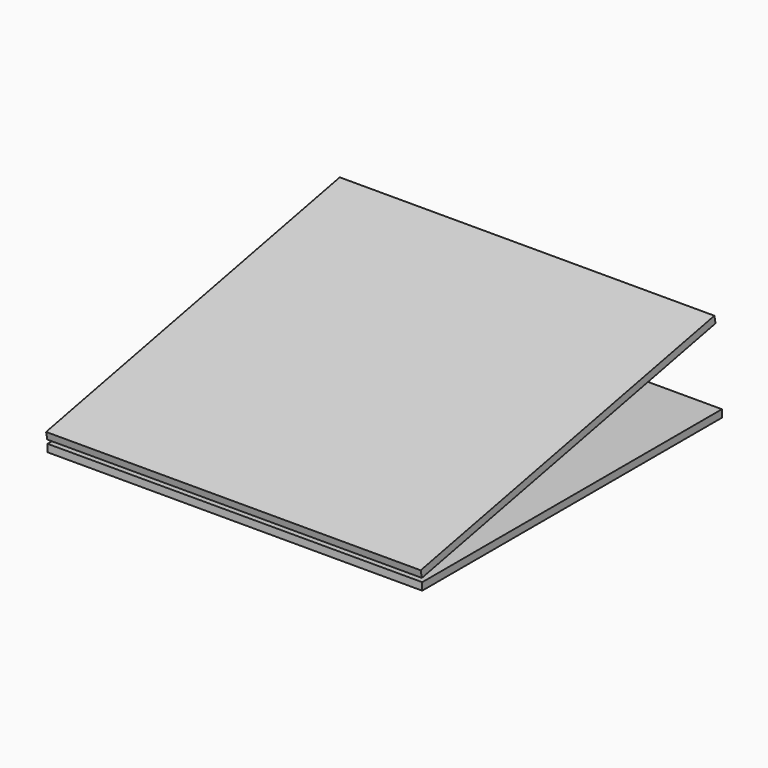
from build123d import *

# Parameters (mm, degrees)
PAD_DEPTH    = 50
SKETCH003_W  = 100
SKETCH003_H  = 2
PAD001_DEPTH = 50
PAD003_DEPTH = 3


with BuildPart() as part:
    # Sketch001 → Pad (new body, symmetric)
    with BuildSketch(Plane.YZ):
        Polygon((24.494897, 5), (24.894897, 3.040408), (122.874487, 23.040408), (122.474487, 25), align=None)
    extrude(amount=PAD_DEPTH, both=True)

    # Sketch003 → Pad001 (join, symmetric)
    with BuildSketch(Plane.YZ):
        with Locations((75, 1)):
            Rectangle(SKETCH003_W, SKETCH003_H)
    extrude(amount=PAD001_DEPTH, both=True)

    # Sketch005 (on DatumPlane) → Pad003 (join, symmetric)
    with BuildSketch(Plane.YZ.offset(10)):
        Polygon((55, 2), (55, 7), (115, 12), (115, 2), align=None)
    extrude(amount=PAD003_DEPTH, both=True)


solid = part.part
